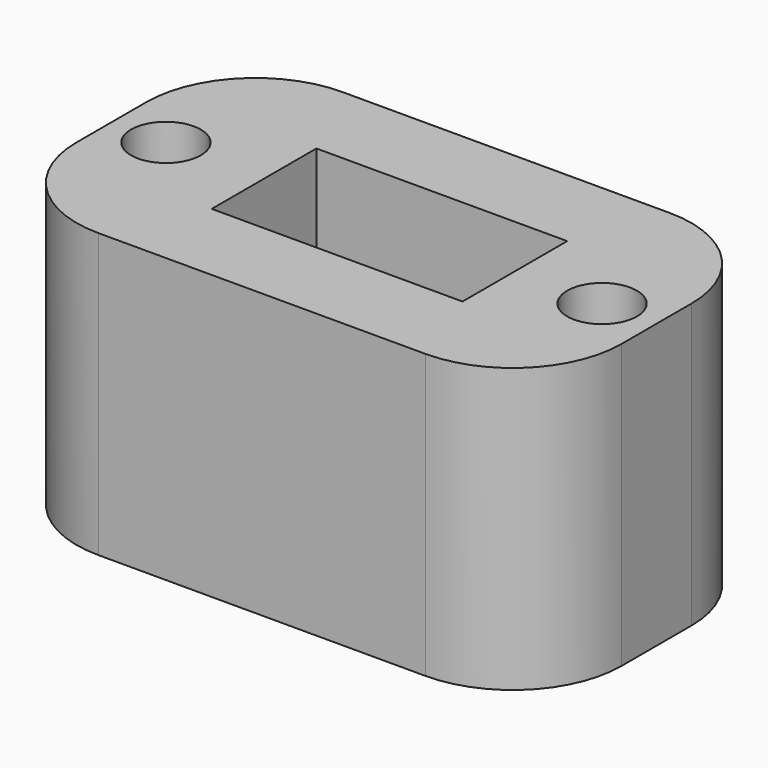
from build123d import *

# Parameters (mm, degrees)
F0_W     = 25
F0_H     = 14
F0_R     = 1.6
F0_W_2   = 11.5
F0_H_2   = 6
F0_R_2   = 1.25
F0_W_3   = 5
F0_H_3   = 2.5
F1_DEPTH = 13
F2_DEPTH = 9
F3_W     = 5
F3_H     = 2.5
F3_R     = 1.25
F4_DEPTH = 5
F4_TAPER = 9
F5_R     = 5


with BuildPart() as f1:
    # F0 (on Top) → F1 (new body)
    with BuildSketch(Plane.XY):
        Rectangle(F0_W, F0_H)
        with Locations((-10, 0)):
            Circle(F0_R, mode=Mode.SUBTRACT)
        with Locations((0.25, 0)):
            Rectangle(F0_W_2, F0_H_2, mode=Mode.SUBTRACT)
        with Locations((10, 0)):
            Circle(F0_R, mode=Mode.SUBTRACT)
        with Locations((0.25, 0)):
            Rectangle(F0_W_2, F0_H_2)
        with Locations((-2.5, 0)):
            Circle(F0_R_2, mode=Mode.SUBTRACT)
        with Locations((1.75, 0.0926498271)):
            Rectangle(F0_W_3, F0_H_3, mode=Mode.SUBTRACT)
        with Locations((-2.5, 0)):
            Circle(F0_R_2)
        with Locations((1.75, 0.0926498271)):
            Rectangle(F0_W_3, F0_H_3)
    extrude(amount=-F1_DEPTH)

    # F0 (on Top) → F2 (cut)
    with BuildSketch(Plane.XY):
        with Locations((0.25, 0)):
            Rectangle(F0_W_2, F0_H_2)
        with Locations((-2.5, 0)):
            Circle(F0_R_2, mode=Mode.SUBTRACT)
        with Locations((1.75, 0.0926498271)):
            Rectangle(F0_W_3, F0_H_3, mode=Mode.SUBTRACT)
        with Locations((-2.5, 0)):
            Circle(F0_R_2)
        with Locations((1.75, 0.0926498271)):
            Rectangle(F0_W_3, F0_H_3)
    extrude(amount=-F2_DEPTH, mode=Mode.SUBTRACT)

    # F3 (on face) → F4 (cut)
    with BuildSketch(Plane.XY.offset(-9)):
        with Locations((1.75, 0.0926498271)):
            Rectangle(F3_W, F3_H)
        with Locations((-2.5, 0)):
            Circle(F3_R)
    extrude(amount=-F4_DEPTH, taper=F4_TAPER, mode=Mode.SUBTRACT)

    # F5
    f5_edges = [f1.edges().sort_by_distance(p)[0] for p in [
        (-12.5, 7, -6.5),
        (12.5, -7, -6.5),
        (12.5, 7, -6.5),
        (-12.5, -7, -6.5),
    ]]
    fillet(f5_edges, radius=F5_R)


solid = f1.part
